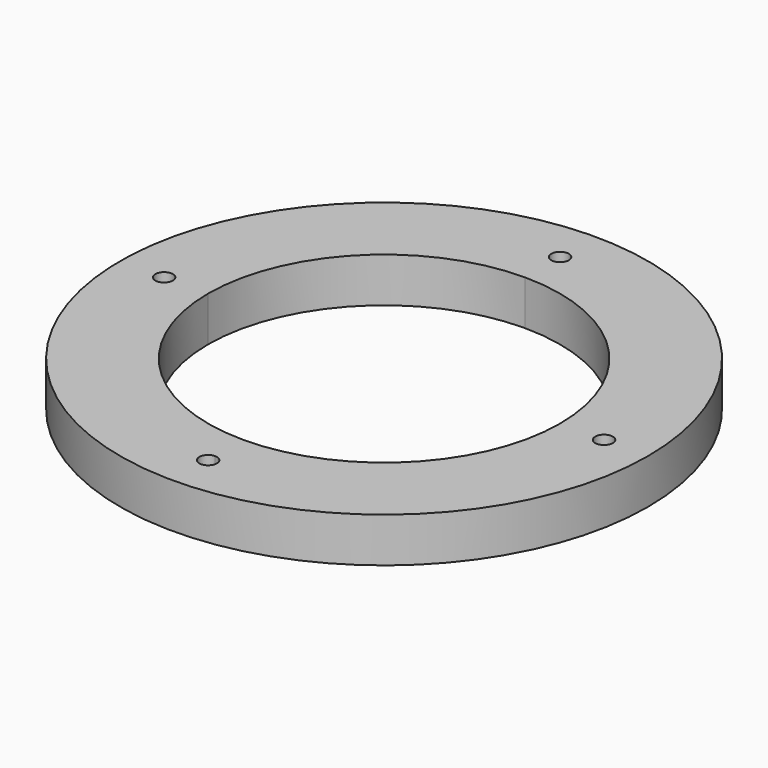
from build123d import *

# Parameters (mm, degrees)
F0_R     = 75
F0_R_2   = 2.5
F1_DEPTH = 12.7


with BuildPart() as f1:
    # F0 (on Top) → F1 (new body)
    with BuildSketch(Plane.XY):
        Circle(F0_R)
        with BuildLine():
            ThreePointArc((2.5, -62.5), (-1.767767, -64.267767), (0, -60))
            ThreePointArc((0, -60), (1.767767, -60.732233), (2.5, -62.5))
        make_face(mode=Mode.SUBTRACT)
        with Locations((-62.5, 0)):
            Circle(F0_R_2, mode=Mode.SUBTRACT)
        with BuildLine():
            ThreePointArc((0, 50), (35.355339, 35.355339), (50, 0))
            ThreePointArc((50, 0), (35.355339, -35.355339), (0, -50))
            ThreePointArc((0, -50), (-35.355339, -35.355339), (-50, 0))
            ThreePointArc((-50, 0), (-35.355339, 35.355339), (0, 50))
        make_face(mode=Mode.SUBTRACT)
        with BuildLine():
            ThreePointArc((65, 0), (62.5, -2.5), (60, 0))
            ThreePointArc((60, 0), (62.5, 2.5), (65, 0))
        make_face(mode=Mode.SUBTRACT)
        with BuildLine():
            ThreePointArc((2.5, 62.5), (1.767767, 60.732233), (0, 60))
            ThreePointArc((0, 60), (-1.767767, 64.267767), (2.5, 62.5))
        make_face(mode=Mode.SUBTRACT)
    extrude(amount=F1_DEPTH)


solid = f1.part
